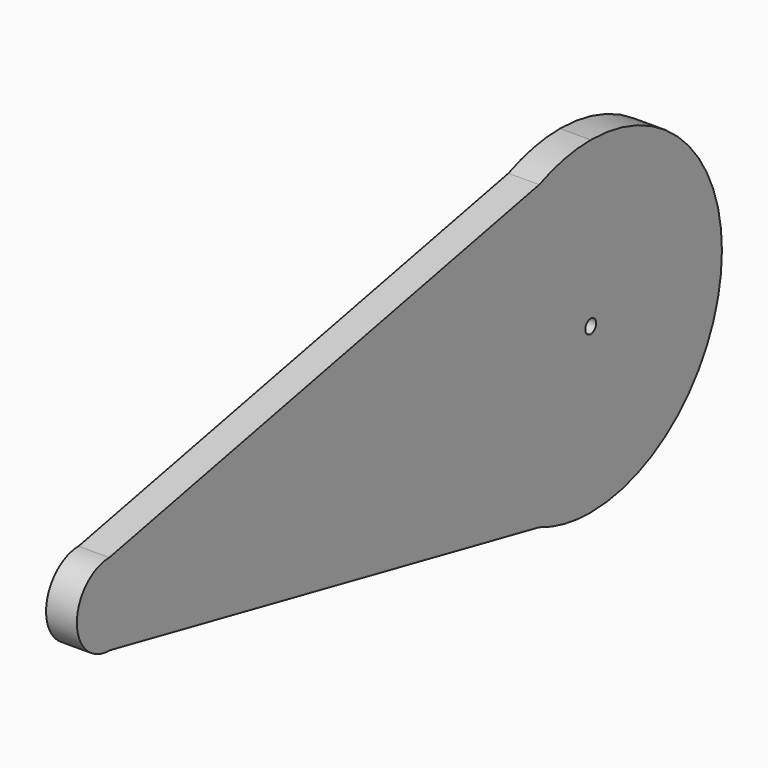
from build123d import *

# Parameters (mm, degrees)
F1_DEPTH = 7.1501


with BuildPart() as f1:
    # F0 (on Right) → F1 (new body, symmetric)
    with BuildSketch(Plane.YZ):
        with BuildLine():
            ThreePointArc((3.175, 0), (0, 3.175), (-3.175, 0))
            ThreePointArc((-3.175, 0), (0, -3.175), (3.175, 0))
        make_face()
        with BuildLine():
            ThreePointArc((0, -76.2), (53.881537, -53.881537), (76.2, 0))
            ThreePointArc((76.2, 0), (53.881537, 53.881537), (0, 76.2))
            Line((0, 76.2), (-29.903151, 70.087385))
            ThreePointArc((-29.903151, 70.087385), (-63.580894, 41.998928), (-76.2, 0))
            ThreePointArc((-76.2, 0), (-63.594253, -41.978698), (-29.947742, -70.068344))
            Line((-29.947742, -70.068344), (0, -76.2))
        make_face()
        with BuildLine():
            ThreePointArc((3.175, 0), (0, -3.175), (-3.175, 0))
            ThreePointArc((-3.175, 0), (0, 3.175), (3.175, 0))
        make_face(mode=Mode.SUBTRACT)
        with BuildLine():
            Line((-29.903151, 70.087385), (0, 76.2))
            ThreePointArc((0, 76.2), (-15.260755, 74.656208), (-29.903151, 70.087385))
        make_face()
        with BuildLine():
            ThreePointArc((-29.947742, -70.068344), (-15.284506, -74.651349), (0, -76.2))
            Line((0, -76.2), (-29.947742, -70.068344))
        make_face()
        with BuildLine():
            ThreePointArc((-76.2, 0), (-63.580894, 41.998928), (-29.903151, 70.087385))
            Line((-29.903151, 70.087385), (-279.584399, 19.049108))
            ThreePointArc((-279.584399, 19.049108), (-265.994969, 13.535422), (-260.35, 0))
            Line((-260.35, 0), (-76.2, 0))
        make_face()
        with BuildLine():
            Line((-279.136332, -19.048175), (-29.947742, -70.068344))
            ThreePointArc((-29.947742, -70.068344), (-63.594253, -41.978698), (-76.2, 0))
            Line((-76.2, 0), (-260.35, 0))
            ThreePointArc((-260.35, 0), (-265.836716, -13.376839), (-279.136332, -19.048175))
        make_face()
        with BuildLine():
            ThreePointArc((-260.35, 0), (-265.994969, 13.535422), (-279.584399, 19.049108))
            ThreePointArc((-279.584399, 19.049108), (-298.448683, -0.224034), (-279.136332, -19.048175))
            ThreePointArc((-279.136332, -19.048175), (-265.836716, -13.376839), (-260.35, 0))
        make_face()
    extrude(amount=F1_DEPTH, both=True)


solid = f1.part
